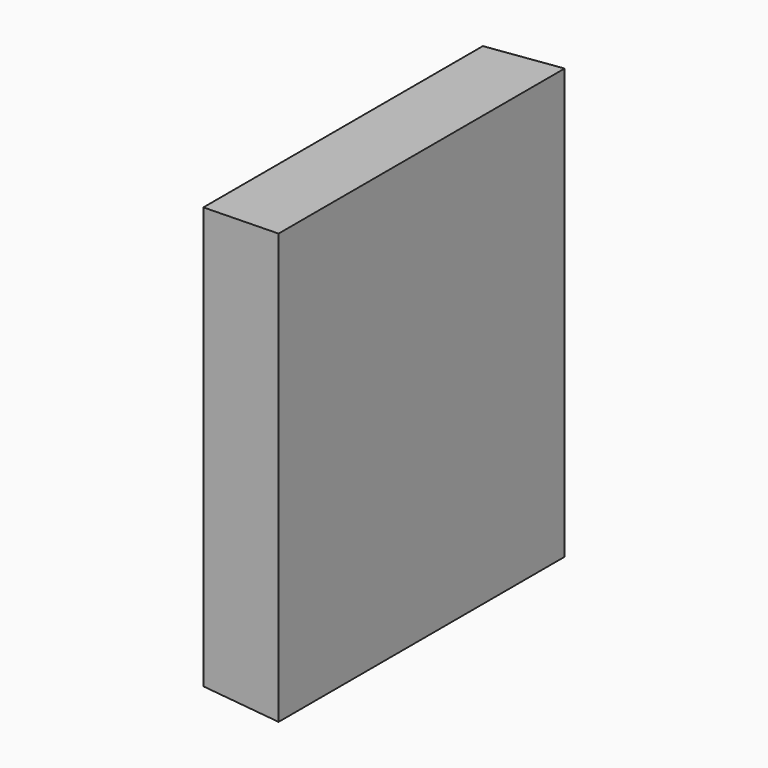
from build123d import *

# Parameters (mm, degrees)
F0_W     = 113.0824163556
F0_H     = 136.5052312613
F1_DEPTH = 25.4
F1_TAPER = -3


with BuildPart() as f1:
    # F0 (on Right) → F1 (new body)
    with BuildSketch(Plane.YZ):
        with Locations((56.5412081778, 1.4701038599)):
            Rectangle(F0_W, F0_H)
    extrude(amount=F1_DEPTH, taper=F1_TAPER)


solid = f1.part
